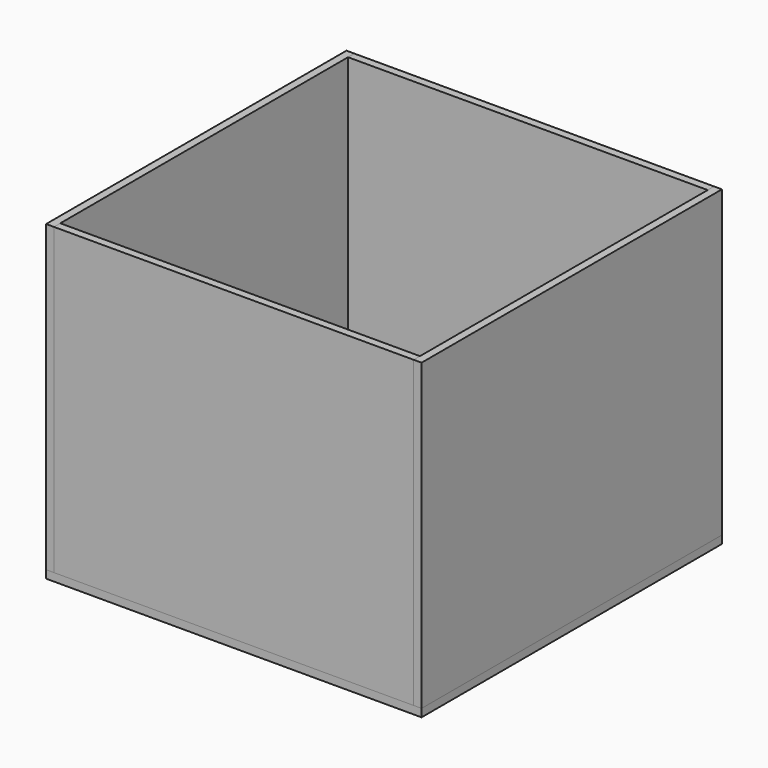
from build123d import *

# Parameters (mm, degrees)
F0_W     = 577.8
F0_H     = 577.8
F0_H_2   = 12.7
F1_DEPTH = 12.7
F2_DEPTH = 488.9
F3_DEPTH = 488.9
F4_DEPTH = 488.9
F5_DEPTH = 488.9


with BuildPart() as f1:
    # F0 (on Top) → F1 (new body)
    with BuildSketch(Plane.XY):
        Rectangle(F0_W, F0_H)
        Polygon((-288.9, -288.9), (-288.9, 288.9), (-288.9, 301.6), (-301.6, 301.6), (-301.6, -301.6), (-288.9, -301.6), align=None)
        with Locations((0, 295.25)):
            Rectangle(F0_W, F0_H_2)
        Polygon((288.9, 301.6), (288.9, 288.9), (288.9, -288.9), (288.9, -301.6), (301.6, -301.6), (301.6, 301.6), align=None)
        with Locations((0, -295.25)):
            Rectangle(F0_W, F0_H_2)
    extrude(amount=-F1_DEPTH)


with BuildPart() as f2:
    # F0 (on Top) → F2 (new body)
    with BuildSketch(Plane.XY):
        with Locations((0, 295.25)):
            Rectangle(F0_W, F0_H_2)
    extrude(amount=F2_DEPTH)


with BuildPart() as f3:
    # F0 (on Top) → F3 (new body)
    with BuildSketch(Plane.XY):
        Polygon((-288.9, -288.9), (-288.9, 288.9), (-288.9, 301.6), (-301.6, 301.6), (-301.6, -301.6), (-288.9, -301.6), align=None)
    extrude(amount=F3_DEPTH)


with BuildPart() as f4:
    # F0 (on Top) → F4 (new body)
    with BuildSketch(Plane.XY):
        Polygon((288.9, 301.6), (288.9, 288.9), (288.9, -288.9), (288.9, -301.6), (301.6, -301.6), (301.6, 301.6), align=None)
    extrude(amount=F4_DEPTH)


with BuildPart() as f5:
    # F0 (on Top) → F5 (new body)
    with BuildSketch(Plane.XY):
        with Locations((0, -295.25)):
            Rectangle(F0_W, F0_H_2)
    extrude(amount=F5_DEPTH)


solid = Compound([f1.part, f2.part, f3.part, f4.part, f5.part])
